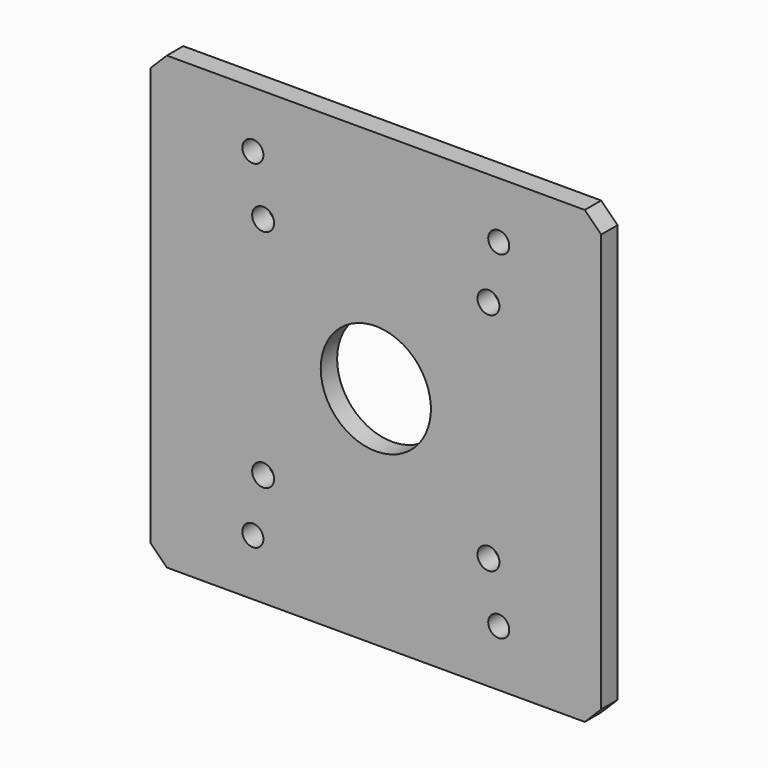
from build123d import *

# Parameters (mm, degrees)
F0_W     = 139.7
F0_H     = 139.7
F1_DEPTH = 6.35
F3_SIZE  = 5.08
F4_D     = 6.8
F6_D     = 6.5278
F8_D     = 34.1376


with BuildPart() as f1:
    # F0 (on Front) → F1 (new body)
    with BuildSketch(Plane.XZ):
        Rectangle(F0_W, F0_H)
    extrude(amount=F1_DEPTH)

    # F3
    f3_edges = [f1.edges().sort_by_distance(p)[0] for p in [
        (-69.85, -3.175, 69.85),
        (69.85, -3.175, 69.85),
        (69.85, -3.175, -69.85),
        (-69.85, -3.175, -69.85),
    ]]
    chamfer(f3_edges, length=F3_SIZE)

    # F4 (through all)
    with Locations(Plane(origin=(0, 0, 0), x_dir=(-1, 0, 0), z_dir=(0, 1, 0))):
        with Locations((-34.925, 34.925), (-34.925, -34.925), (34.925, -34.925), (34.925, 34.925)):
            Hole(F4_D / 2)

    # F6 (through all)
    with Locations(Plane.XZ.offset(6.35)):
        with Locations((38.1, 52.3875), (-38.1, 52.3875), (-38.1, -52.3875), (38.1, -52.3875)):
            Hole(F6_D / 2)

    # F8 (through all)
    with Locations(Plane.XZ.offset(6.35)):
        with Locations((0, 0)):
            Hole(F8_D / 2)


solid = f1.part
